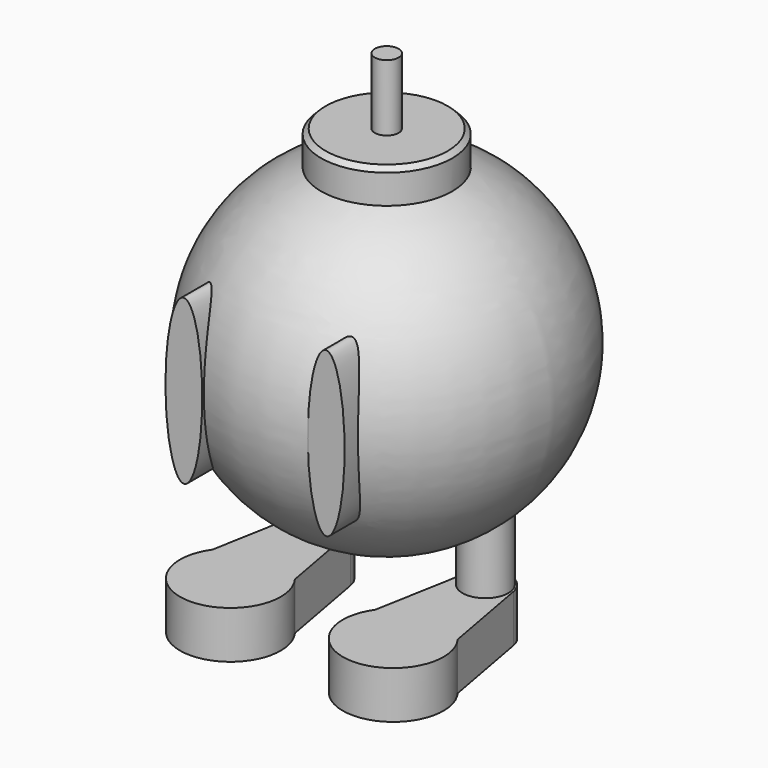
from build123d import *

# Parameters (mm, degrees)
F2_R      = 17.600721
F3_DEPTH  = 50.8
F4_SIZE   = 1.27
F5_R      = 3.193313
F6_DEPTH  = 68.58
F7_R      = 5.852197
F7_R_2    = 6.158231
F8_DEPTH  = 64.77
F10_DEPTH = 12.7
F12_DEPTH = 43.18


with BuildPart() as f1:
    # F0 (on Front) → F1 (revolve)
    with BuildSketch(Plane.XZ):
        with BuildLine():
            ThreePointArc((0, -44.31119), (45.162806, 0.420636), (0, 45.152461))
            Line((0, 45.152461), (0, -44.31119))
        make_face()
    revolve(axis=Axis((0, 0, 0.420636), (0, 0, -1)))

    # F2 (on Top) → F3 (join)
    with BuildSketch(Plane.XY):
        Circle(F2_R)
    extrude(amount=F3_DEPTH)

    # F4
    f4_edges = [f1.edges().sort_by_distance(p)[0] for p in [
        (-17.600721, 0, 50.8),
    ]]
    chamfer(f4_edges, length=F4_SIZE)

    # F5 (on Top) → F6 (join)
    with BuildSketch(Plane.XY):
        Circle(F5_R)
    extrude(amount=F6_DEPTH)

    # F7 (on Top) → F8 (join)
    with BuildSketch(Plane.XY):
        with Locations((-21.764746, 5.852197)):
            Circle(F7_R)
        with Locations((21.764745, 5.852197)):
            Circle(F7_R_2)
    extrude(amount=-F8_DEPTH)

    # F9 (on face) → F10 (join)
    with BuildSketch(Plane(origin=(0, 0, -64.77), x_dir=(1, 0, 0), z_dir=(0, 0, -1))):
        with BuildLine():
            Line((28.323952, -7.020816), (32.743111, 17.168252))
            ThreePointArc((32.743111, 17.168252), (22.03929, 38.695609), (10.879911, 17.40084))
            Line((10.879911, 17.40084), (15.299067, -7.020816))
            ThreePointArc((15.299067, -7.020816), (21.81151, -12.451274), (28.323952, -7.020816))
        make_face()
        with BuildLine():
            Line((-15.286124, -7.020816), (-10.866965, 17.168252))
            ThreePointArc((-10.866965, 17.168252), (-21.570787, 38.695609), (-32.730165, 17.40084))
            Line((-32.730165, 17.40084), (-28.31101, -7.020816))
            ThreePointArc((-28.31101, -7.020816), (-21.798567, -12.451274), (-15.286124, -7.020816))
        make_face()
    extrude(amount=-F10_DEPTH)

    # F11 (on Front) → F12 (join)
    with BuildSketch(Plane.XZ):
        with BuildLine():
            add(Edge.make_bspline(
                [(-19.802049, -21.876966), (-11.238602, -21.876966), (-15.520325, 11.011583), (-19.802049, 43.900133), (-24.083772, 11.011583), (-28.365496, -21.876966), (-19.802049, -21.876966)],
                knots=[0, 0, 0, 2.094395, 2.094395, 4.18879, 4.18879, 6.283185, 6.283185, 6.283185], degree=2, weights=[1, 0.5, 1, 0.5, 1, 0.5, 1]))
        make_face()
        with BuildLine():
            add(Edge.make_bspline(
                [(18.328091, -21.821958), (26.891538, -21.821958), (22.609815, 11.066592), (18.328091, 43.955141), (14.046368, 11.066592), (9.764645, -21.821958), (18.328091, -21.821958)],
                knots=[0, 0, 0, 2.094395, 2.094395, 4.18879, 4.18879, 6.283185, 6.283185, 6.283185], degree=2, weights=[1, 0.5, 1, 0.5, 1, 0.5, 1]))
        make_face()
    extrude(amount=F12_DEPTH)


solid = f1.part
